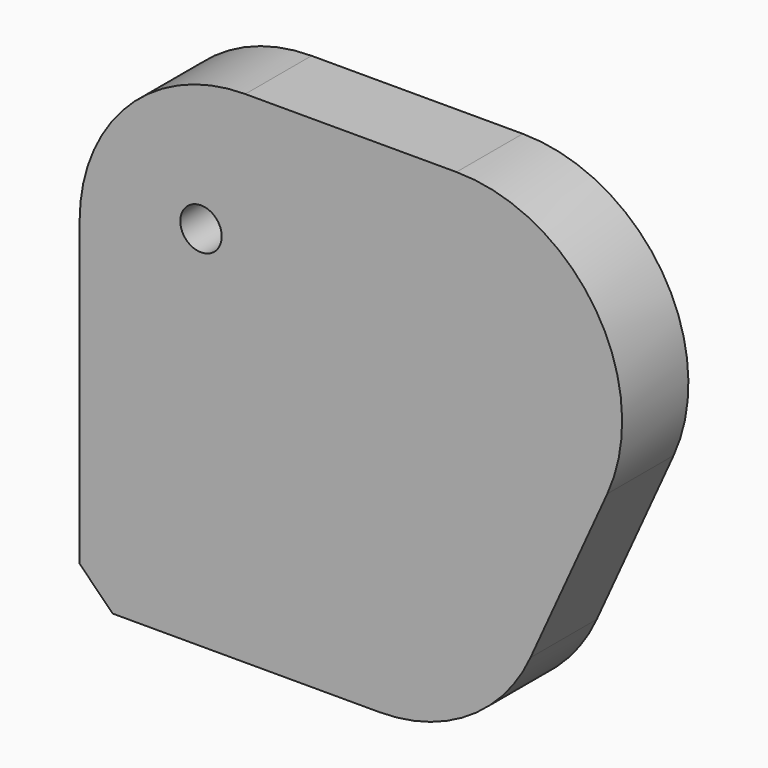
from build123d import *

# Parameters (mm, degrees)
F1_DEPTH = 12.7
F3_D     = 6.35
F4_SIZE  = 5.08


with BuildPart() as f1:
    # F0 (on Front) → F1 (new body)
    with BuildSketch(Plane.XZ):
        with BuildLine():
            ThreePointArc((-43.925832, 29.31416), (-61.886345, 21.874673), (-69.325832, 3.91416))
            Line((-69.325832, 3.91416), (-69.325832, -47.419965))
            Line((-69.325832, -47.419965), (-23.331021, -47.419965))
            ThreePointArc((-23.331021, -47.419965), (-9.575842, -43.37307), (-0.203796, -32.521939))
            Line((-0.203796, -32.521939), (11.572779, -6.587813))
            ThreePointArc((11.572779, -6.587813), (9.798658, 17.669339), (-11.554446, 29.31416))
            Line((-11.554446, 29.31416), (-43.925832, 29.31416))
        make_face()
    extrude(amount=F1_DEPTH)

    # F3 (through all)
    with Locations(Plane(origin=(0, 0, 0), x_dir=(-1, 0, 0), z_dir=(0, 1, 0))):
        with Locations((50.714333, 8.912938)):
            Hole(F3_D / 2)

    # F4
    f4_edges = [f1.edges().sort_by_distance(p)[0] for p in [
        (-69.325832, -6.35, -47.419965),
    ]]
    chamfer(f4_edges, length=F4_SIZE)


solid = f1.part
